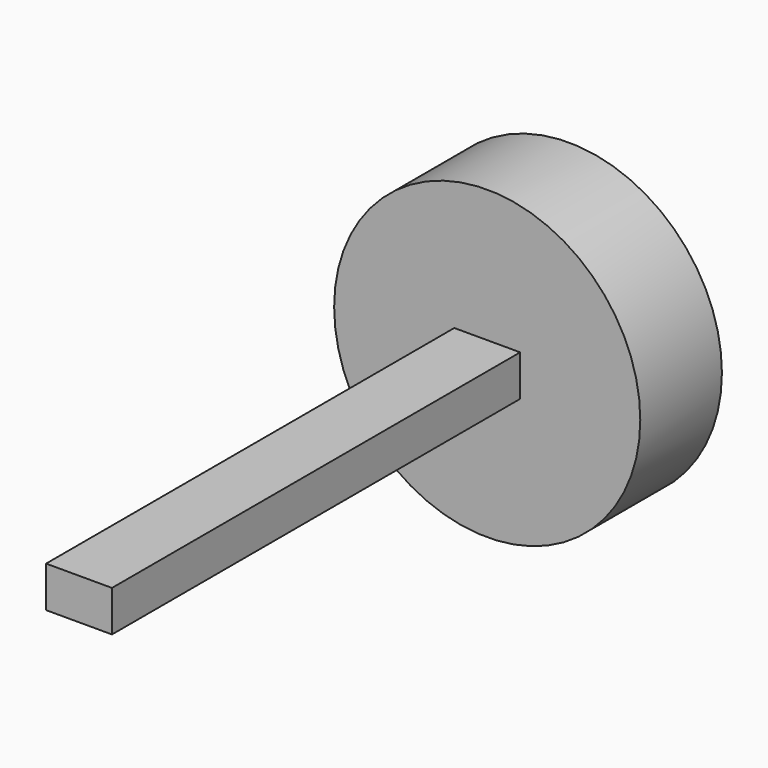
from build123d import *

# Parameters (mm, degrees)
F0_W     = 4.1
F0_H     = 2.55
F0_W_2   = 3.1
F0_H_2   = 1.55
F1_DEPTH = 38.1
F0_R     = 9.525
F2_DEPTH = 6.35
F3_W     = 4.1
F3_H     = 2.55
F3_W_2   = 3.1
F3_H_2   = 1.55
F4_DEPTH = 1


with BuildPart() as f1:
    # F0 (on Front) → F1 (new body)
    with BuildSketch(Plane.XZ):
        Rectangle(F0_W, F0_H)
        Rectangle(F0_W_2, F0_H_2, mode=Mode.SUBTRACT)
    extrude(amount=F1_DEPTH)

    # F0 (on Front) → F2 (join)
    with BuildSketch(Plane.XZ):
        Circle(F0_R)
        Rectangle(F0_W, F0_H, mode=Mode.SUBTRACT)
    extrude(amount=F2_DEPTH)

    # F3 (on face) → F4 (join)
    with BuildSketch(Plane.XZ.offset(38.1)):
        Rectangle(F3_W, F3_H)
        Rectangle(F3_W_2, F3_H_2, mode=Mode.SUBTRACT)
        Rectangle(F3_W_2, F3_H_2)
    extrude(amount=-F4_DEPTH)


solid = f1.part
